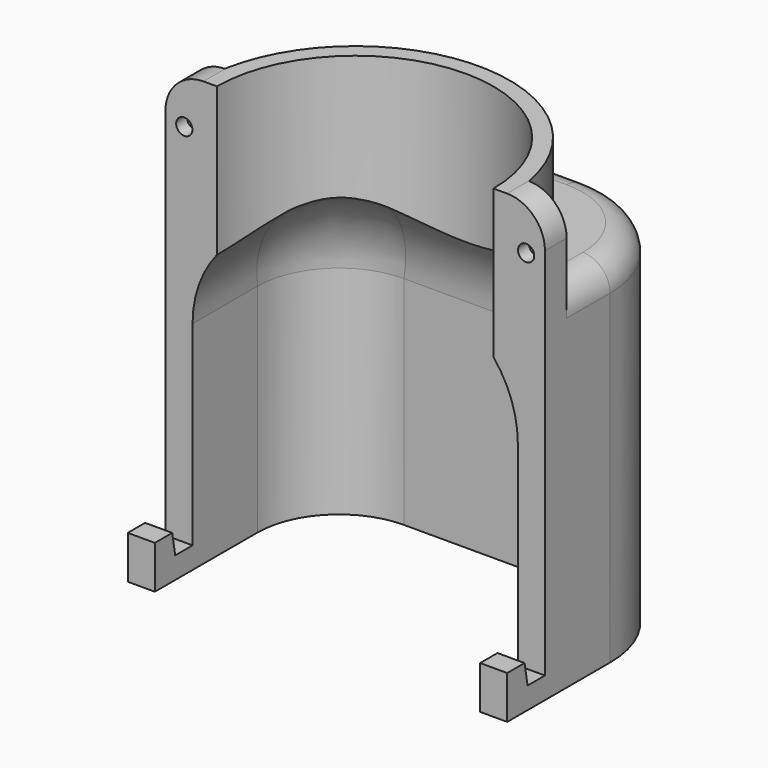
from build123d import *

# Parameters (mm, degrees)
PAD_DEPTH       = 35
SKETCH001_R     = 27.5
PAD001_DEPTH    = 30
FILLET_R        = 20
THICKNESS_T     = -5
FILLET001_R     = 15
FILLET002_R     = 5
CHAMFER_SIZE2   = 25
CHAMFER_SIZE    = 3
FILLET003_R     = 20
SKETCH002_R     = 28.5
PAD002_DEPTH    = 15
SKETCH003_R     = 25.5
POCKET_DEPTH    = 80.001
SKETCH004_W     = 9
SKETCH004_H     = 20
PAD003_DEPTH    = 5
FILLET004_R     = 7
SKETCH006_R     = 1.5
POCKET002_DEPTH = 40.001
POCKET003_DEPTH = 2.5
POCKET004_DEPTH = 70.001


with BuildPart() as part:
    # Sketch → Pad (new body, symmetric)
    with BuildSketch(Plane.YZ):
        Polygon((-85, 0), (-85, 15), (-35, 65), (35, 65), (35, 0), align=None)
    extrude(amount=PAD_DEPTH, both=True)

    # Sketch001 (on Face2 of Pad) → Pad001 (join)
    with BuildSketch(Plane(origin=(0, -50, 50), x_dir=(0, -0.707107, -0.707107), z_dir=(0, -0.707107, 0.707107))):
        with Locations((14.142136, 0)):
            Circle(SKETCH001_R)
    extrude(amount=PAD001_DEPTH)

    # Fillet
    fillet_edges = [part.edges().sort_by_distance(p)[0] for p in [
        (-35, 35, 32.5),
        (-35, -85, 7.5),
        (35, -85, 7.5),
        (35, 35, 32.5),
    ]]
    fillet(fillet_edges, radius=FILLET_R)

    # Thickness
    thickness_openings = [part.faces().sort_by_distance(p)[0] for p in [
        (0, -25, 0),
        (0, -81.213203, 61.213203),
    ]]
    offset(amount=THICKNESS_T, openings=thickness_openings)

    # Fillet001
    fillet001_edges = [part.edges().sort_by_distance(p)[0] for p in [
        (0, -35, 65),
    ]]
    fillet(fillet001_edges, radius=FILLET001_R)

    # Fillet002
    fillet002_edges = [part.edges().sort_by_distance(p)[0] for p in [
        (-35, -6.893398, 65),
    ]]
    fillet(fillet002_edges, radius=FILLET002_R)

    # Chamfer
    chamfer_edges = [part.edges().sort_by_distance(p)[0] for p in [
        (0, -65.303301, 77.123106),
    ]]
    chamfer_side = part.faces().sort_by_distance((0, -62.317767, 80.10864))[0]
    chamfer(chamfer_edges, length=CHAMFER_SIZE, length2=CHAMFER_SIZE2, reference=chamfer_side)

    # Fillet003
    fillet003_edges = [part.edges().sort_by_distance(p)[0] for p in [
        (-25.606602, 25.606602, 60),
    ]]
    fillet(fillet003_edges, radius=FILLET003_R)

    # Sketch002 (on Face41 of Fillet003) → Pad002 (join)
    with BuildSketch(Plane.XY.offset(65)):
        Circle(SKETCH002_R)
    extrude(amount=PAD002_DEPTH)

    # Sketch003 (on Face46 of Pad002) → Pocket (cut, through all)
    with BuildSketch(Plane.XY.offset(80)):
        Circle(SKETCH003_R)
    extrude(amount=-POCKET_DEPTH, mode=Mode.SUBTRACT)

    # Sketch004 → Pad003 (join, symmetric)
    with BuildSketch(Plane(origin=(0, 0, 0), x_dir=(-1, 0, 0), z_dir=(0, 1, 0))):
        with Locations((-30.5, 70)):
            Rectangle(SKETCH004_W, SKETCH004_H)
        with Locations((30.5, 70)):
            Rectangle(SKETCH004_W, SKETCH004_H)
    extrude(amount=PAD003_DEPTH, both=True)

    # Fillet004
    fillet004_edges = [part.edges().sort_by_distance(p)[0] for p in [
        (35, 0, 80),
        (-35, 0, 80),
    ]]
    fillet(fillet004_edges, radius=FILLET004_R)

    # Sketch006 (on Face2 of Fillet004) → Pocket002 (cut, through all)
    with BuildSketch(Plane.XZ.offset(5)):
        with Locations((-31.528988, 71.49976)):
            Circle(SKETCH006_R)
        with Locations((31.528988, 71.49976)):
            Circle(SKETCH006_R)
    extrude(amount=-POCKET002_DEPTH, mode=Mode.SUBTRACT)

    # Sketch007 (on Face11 of Pocket002) → Pocket003 (cut)
    with BuildSketch(Plane(origin=(0, 5, 0), x_dir=(-1, 0, 0), z_dir=(0, 1, 0))):
        Polygon((-28.778988, 69.912047), (-28.778988, 73.087473), (-31.528988, 74.675186), (-34.278988, 73.087473), (-34.278988, 69.912047), (-31.528988, 68.324333), align=None)
        Polygon((34.278988, 69.912047), (34.278988, 73.087473), (31.528988, 74.675186), (28.778988, 73.087473), (28.778988, 69.912047), (31.528988, 68.324333), align=None)
    extrude(amount=-POCKET003_DEPTH, mode=Mode.SUBTRACT)

    # Sketch008 (on Face16 of Pocket003) → Pocket004 (cut, through all)
    with BuildSketch(Plane(origin=(-35, 0, 0), x_dir=(0, -1, 0), z_dir=(-1, 0, 0))):
        Polygon((0, 94.046894), (120.73246, 94.046894), (120.73246, 0), (8.694593, 0), (8.694593, 7.939231), (4.694593, 7.939231), (4, 4), (0, 4), align=None)
    extrude(amount=-POCKET004_DEPTH, mode=Mode.SUBTRACT)


solid = part.part
